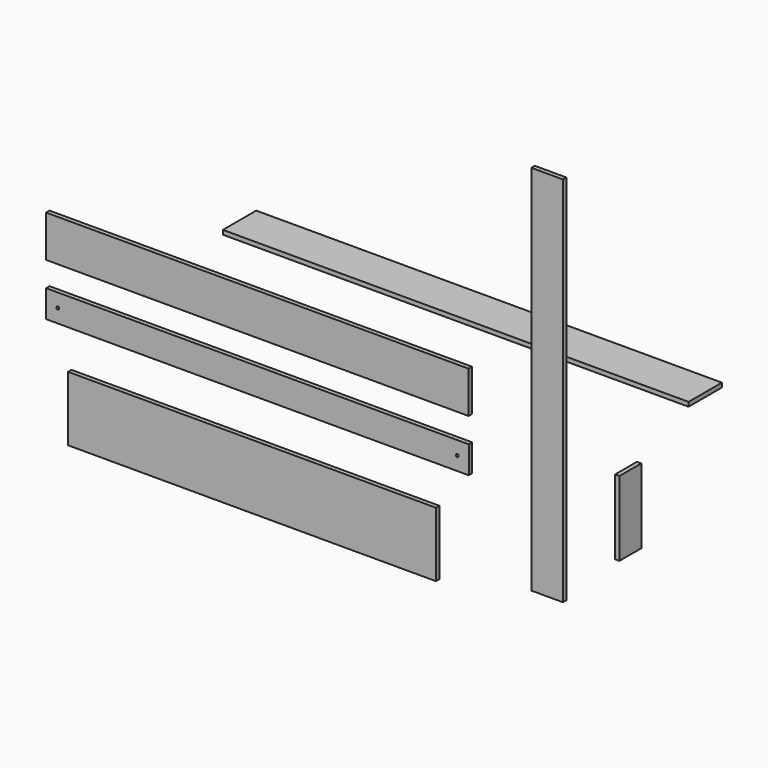
from build123d import *

# Parameters (mm, degrees)
F0_W      = 139.7
F0_H      = 1644.65
F1_DEPTH  = 19.05
F2_W      = 2057.4
F2_H      = 184.15
F3_DEPTH  = 19.05
F6_W      = 1866.9
F6_H      = 184.15
F7_DEPTH  = 19.05
F8_W      = 1866.9
F8_H      = 120.65
F9_DEPTH  = 19.05
F10_W     = 19.05
F10_H     = 330.2
F11_DEPTH = 120.65
F14_D     = 12.7
F15_W     = 1625.6
F15_H     = 285.75
F16_DEPTH = 19.05


with BuildPart() as f1:
    # F0 (on Front) → F1 (new body)
    with BuildSketch(Plane.XZ):
        Rectangle(F0_W, F0_H)
    extrude(amount=F1_DEPTH)


with BuildPart() as f3:
    # F2 (on Top) → F3 (new body)
    with BuildSketch(Plane.XY):
        with Locations((-545.853794, 250.992194)):
            Rectangle(F2_W, F2_H)
    extrude(amount=F3_DEPTH)


with BuildPart() as f4_1:
    # F4: copy of F1
    add(f1.part.moved(Location((-459.74, 0, 0))))


with BuildPart() as f7:
    # F6 (on Front) → F7 (new body)
    with BuildSketch(Plane.XZ):
        with Locations((-1279.907092, -141.23211)):
            Rectangle(F6_W, F6_H)
    extrude(amount=F7_DEPTH)


with BuildPart() as f9:
    # F8 (on Front) → F9 (new body)
    with BuildSketch(Plane.XZ):
        with Locations((-1279.34335, -403.431412)):
            Rectangle(F8_W, F8_H)
    extrude(amount=F9_DEPTH)

    # F14 (through all)
    with Locations(Plane.XZ.offset(19.05)):
        with Locations((-2161.984682, -403.406918), (-396.658272, -403.432995)):
            Hole(F14_D / 2)


with BuildPart() as f11:
    # F10 (on Front) → F11 (new body)
    with BuildSketch(Plane.XZ):
        with Locations((391.474263, -347.32341)):
            Rectangle(F10_W, F10_H)
    extrude(amount=F11_DEPTH)


with BuildPart() as f16:
    # F15 (on Front) → F16 (new body)
    with BuildSketch(Plane.XZ):
        with Locations((-1303.781986, -779.88944)):
            Rectangle(F15_W, F15_H)
    extrude(amount=F16_DEPTH)


solid = Compound([f1.part, f3.part, f7.part, f9.part, f11.part, f16.part])
